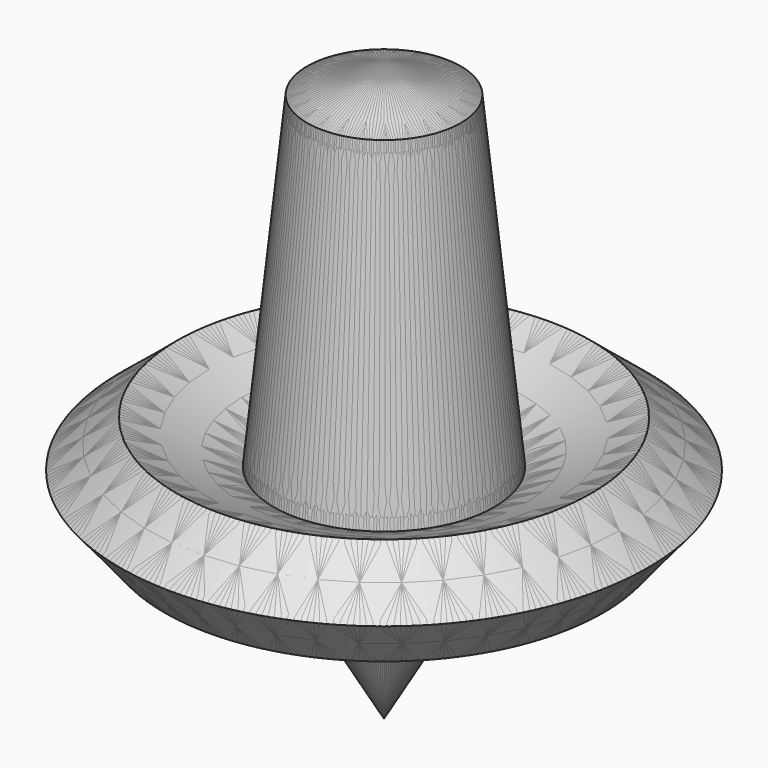
from build123d import *

# Parameters (mm, degrees)
F4_COUNT = 5
F4_ANGLE = 288


with BuildPart() as f1:
    # F0 (on Front) → F1 (revolve)
    with BuildSketch(Plane.XZ):
        Polygon((0, 50.2795092762), (0, 0), (9.6186865121, 16.7598351836), (19.131000811, 14.3613263531), (23.0265557766, 19.0916396677), (18.0714782327, 23.172294721), (9.6186865121, 19.3831156939), (6.7039323039, 47.947704792), align=None)
    revolve(axis=Axis((0, 0, 25.1397546381), (0, 0, 1)))


with BuildPart() as f4_1:
    # F4: instance of F1
    add(f1.part.rotate(Axis((0, 0, 47.947704792), (0, 0, 1)), 1 * F4_ANGLE / (F4_COUNT - 1)))


with BuildPart() as f4_2:
    # F4: instance of F1
    add(f1.part.rotate(Axis((0, 0, 47.947704792), (0, 0, 1)), 2 * F4_ANGLE / (F4_COUNT - 1)))


with BuildPart() as f4_3:
    # F4: instance of F1
    add(f1.part.rotate(Axis((0, 0, 47.947704792), (0, 0, 1)), 3 * F4_ANGLE / (F4_COUNT - 1)))


with BuildPart() as f4_4:
    # F4: instance of F1
    add(f1.part.rotate(Axis((0, 0, 47.947704792), (0, 0, 1)), 4 * F4_ANGLE / (F4_COUNT - 1)))


solid = Compound([f1.part, f4_1.part, f4_2.part, f4_3.part, f4_4.part])
